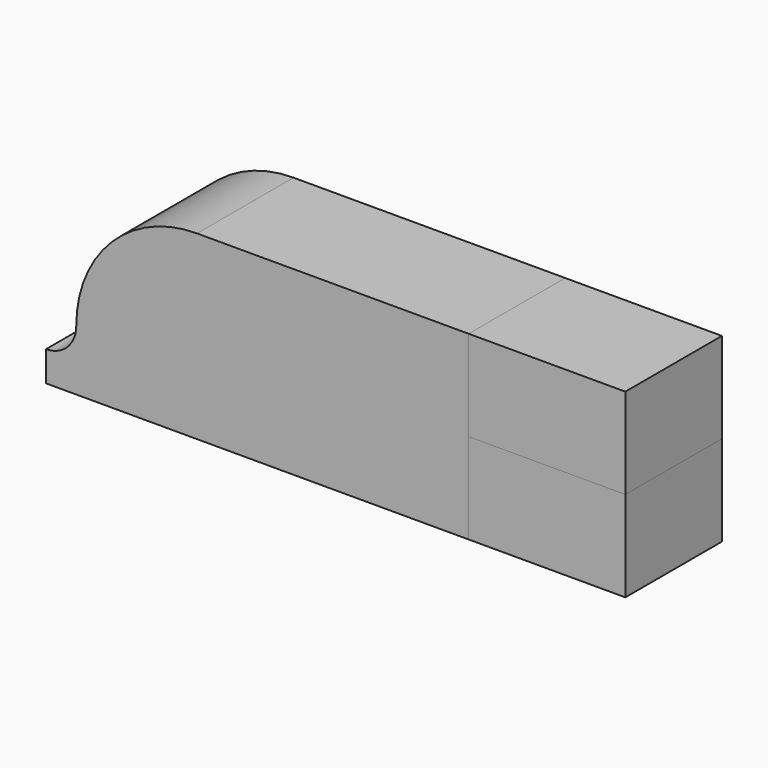
from build123d import *

# Parameters (mm, degrees)
F1_DEPTH = 25.4
F0_W     = 32.958177
F0_H     = 19.05
F2_DEPTH = 25.4
F3_DEPTH = 25.4


with BuildPart() as f1:
    # F0 (on Front) → F1 (new body)
    with BuildSketch(Plane.XZ):
        with BuildLine():
            Line((-72.895174, 0), (0, 0))
            Line((0, 0), (3.363179, 0))
            Line((3.363179, 0), (16.004826, 0))
            Line((16.004826, 0), (16.004826, 19.05))
            Line((16.004826, 19.05), (16.004826, 38.1))
            Line((16.004826, 38.1), (-41.145174, 38.1))
            ThreePointArc((-41.145174, 38.1), (-59.105686, 30.660512), (-66.545174, 12.7))
            ThreePointArc((-66.545174, 12.7), (-68.405045, 8.209872), (-72.895174, 6.35))
            Line((-72.895174, 6.35), (-72.895174, 0))
        make_face()
    extrude(amount=F1_DEPTH)


with BuildPart() as f2:
    # F0 (on Front) → F2 (new body)
    with BuildSketch(Plane.XZ):
        with Locations((32.483914, 28.575)):
            Rectangle(F0_W, F0_H)
    extrude(amount=F2_DEPTH)


with BuildPart() as f3:
    # F0 (on Front) → F3 (new body)
    with BuildSketch(Plane.XZ):
        with Locations((32.483914, 9.525)):
            Rectangle(F0_W, F0_H)
    extrude(amount=F3_DEPTH)


solid = Compound([f1.part, f2.part, f3.part])
